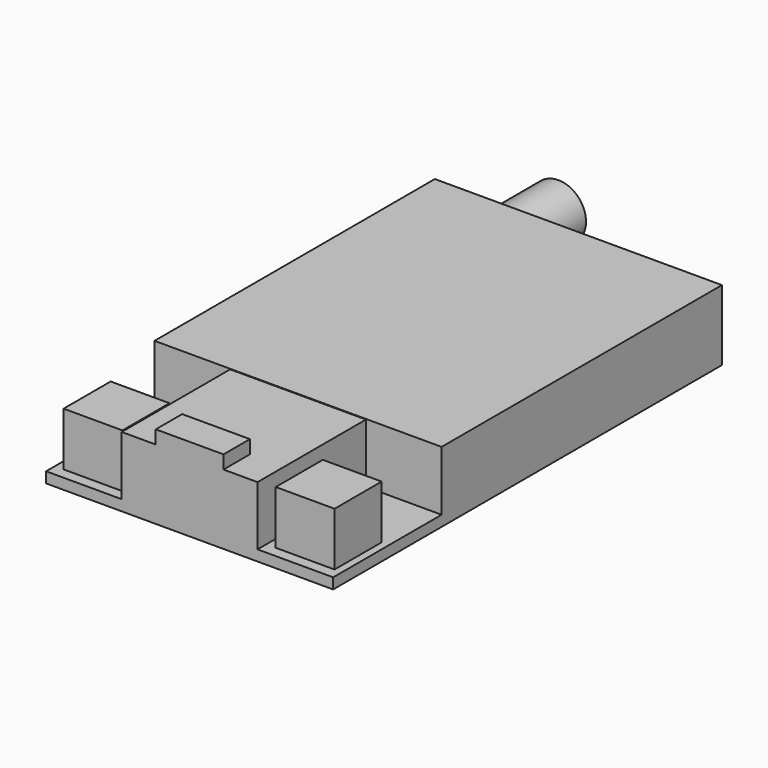
from build123d import *

# Parameters (mm, degrees)
F0_W      = 32.2
F0_H      = 54.5
F1_DEPTH  = 1.2
F3_DEPTH  = 6.7
F2_W      = 15.23
F2_H      = 15.2
F4_DEPTH  = 8.14
F2_W_2    = 6.6
F2_H_2    = 6.6
F5_DEPTH  = 6
F6_R      = 2
F7_DEPTH  = 2.5
F9_DEPTH  = 10.2
F10_DEPTH = 2
F11_DEPTH = 6
F13_DEPTH = 1.5


with BuildPart() as f1:
    # F0 (on Top) → F1 (new body)
    with BuildSketch(Plane.XY):
        Rectangle(F0_W, F0_H)
    extrude(amount=F1_DEPTH)

    # F2 (on face) → F3 (join)
    with BuildSketch(Plane.XY.offset(1.2)):
        Polygon((-7.615, -12.05), (7.615, -12.05), (16.1, -12.05), (16.1, 27.25), (-16.1, 27.25), (-16.1, -12.05), align=None)
    extrude(amount=F3_DEPTH)

    # F2 (on face) → F4 (join)
    with BuildSketch(Plane.XY.offset(1.2)):
        with Locations((0, -19.65)):
            Rectangle(F2_W, F2_H)
    extrude(amount=F4_DEPTH)

    # F2 (on face) → F5 (join)
    with BuildSketch(Plane.XY.offset(1.2)):
        with Locations((-11.8228513747, -22.7176826447)):
            Rectangle(F2_W_2, F2_H_2)
        with Locations((11.9689786807, -22.7176826447)):
            Rectangle(F2_W_2, F2_H_2)
    extrude(amount=F5_DEPTH)

    # F6 (on face) → F7 (join)
    with BuildSketch(Plane(origin=(0, 0, 0), x_dir=(1, 0, 0), z_dir=(0, 0, -1))):
        with Locations((-11.8832346052, 16.5988039225)):
            Circle(F6_R)
    extrude(amount=F7_DEPTH)

    # F8 (on face) → F9 (join)
    with BuildSketch(Plane(origin=(0, 27.25, 0), x_dir=(-1, 0, 0), z_dir=(0, 1, 0))):
        with BuildLine():
            ThreePointArc((13.5, 2.4), (9.0719637109, 5.2011282753), (8.437858313, 0))
            Line((8.437858313, 0), (12.362141687, 0))
            ThreePointArc((12.362141687, 0), (13.2011282753, 1.0719637109), (13.5, 2.4))
        make_face()
        with BuildLine():
            Line((12.362141687, 0), (8.437858313, 0))
            ThreePointArc((8.437858313, 0), (10.4, -0.7), (12.362141687, 0))
        make_face()
    extrude(amount=F9_DEPTH)

    # F8 (on face) → F10 (join)
    with BuildSketch(Plane(origin=(0, 27.25, 0), x_dir=(-1, 0, 0), z_dir=(0, 1, 0))):
        with BuildLine():
            Line((8.437858313, 0), (7, 0))
            Line((7, 0), (7, -1))
            Line((7, -1), (13.8, -1))
            Line((13.8, -1), (13.8, 0))
            Line((13.8, 0), (12.362141687, 0))
            ThreePointArc((12.362141687, 0), (10.4, -0.7), (8.437858313, 0))
        make_face()
        with BuildLine():
            Line((13.8, 5.8), (7, 5.8))
            Line((7, 5.8), (7, 0))
            Line((7, 0), (8.437858313, 0))
            ThreePointArc((8.437858313, 0), (9.0719637109, 5.2011282753), (13.5, 2.4))
            ThreePointArc((13.5, 2.4), (13.2011282753, 1.0719637109), (12.362141687, 0))
            Line((12.362141687, 0), (13.8, 0))
            Line((13.8, 0), (13.8, 5.8))
        make_face()
    extrude(amount=F10_DEPTH)

    # F8 (on face) → F11 (join)
    with BuildSketch(Plane(origin=(0, 27.25, 0), x_dir=(-1, 0, 0), z_dir=(0, 1, 0))):
        with BuildLine():
            Line((8.437858313, 0), (7, 0))
            Line((7, 0), (7, -1))
            Line((7, -1), (13.8, -1))
            Line((13.8, -1), (13.8, 0))
            Line((13.8, 0), (12.362141687, 0))
            ThreePointArc((12.362141687, 0), (10.4, -0.7), (8.437858313, 0))
        make_face()
        with BuildLine():
            Line((12.362141687, 0), (8.437858313, 0))
            ThreePointArc((8.437858313, 0), (10.4, -0.7), (12.362141687, 0))
        make_face()
    extrude(amount=-F11_DEPTH)

    # F12 (on face) → F13 (cut)
    with BuildSketch(Plane.XY.offset(9.34)):
        Polygon((-7.615, -27.25), (-3.8, -27.25), (-3.8, -23.55), (3.8, -23.55), (3.8, -27.25), (7.615, -27.25), (7.615, -12.05), (-7.615, -12.05), align=None)
    extrude(amount=-F13_DEPTH, mode=Mode.SUBTRACT)


solid = f1.part
